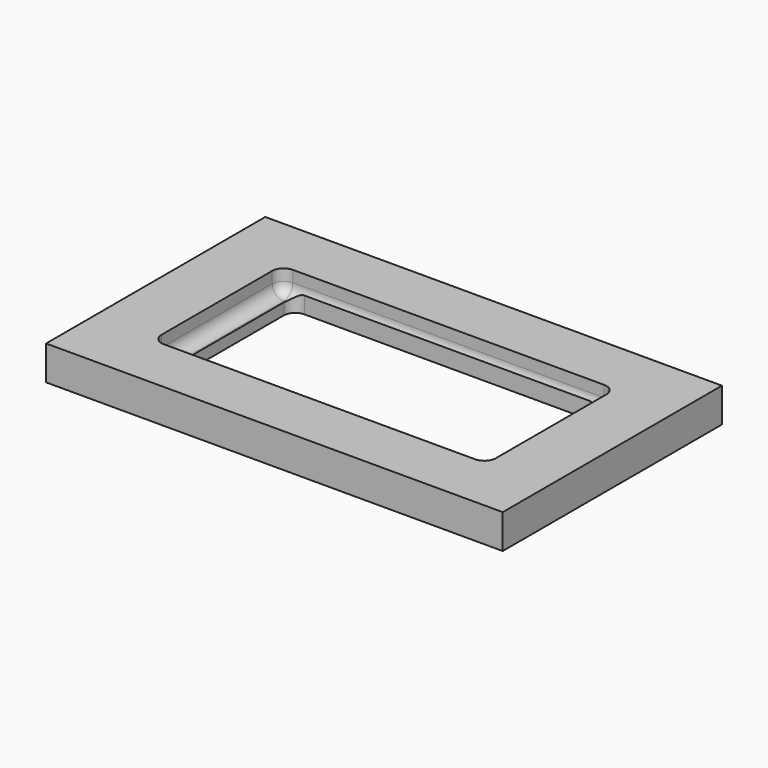
from build123d import *

# Parameters (mm, degrees)
F0_W      = 200
F0_H      = 120
F1_DEPTH  = 15
F2_W      = 146.4
F2_H      = 70.6
F3_DEPTH  = 10
F4_R      = 5
F5_R      = 5
F6_R      = 5
F7_R      = 5
F8_R      = 5
F9_W      = 135
F9_H      = 69
F10_DEPTH = 25
F11_R     = 5
F12_R     = 5
F13_R     = 5
F14_R     = 5


with BuildPart() as f1:
    # F0 (on Top) → F1 (new body)
    with BuildSketch(Plane.XY):
        Rectangle(F0_W, F0_H)
    extrude(amount=F1_DEPTH)

    # F2 (on face) → F3 (cut)
    with BuildSketch(Plane.XY.offset(15)):
        Rectangle(F2_W, F2_H)
    extrude(amount=-F3_DEPTH, mode=Mode.SUBTRACT)

    # F4
    f4_edges = [f1.edges().sort_by_distance(p)[0] for p in [
        (-73.2, 35.3, 10),
    ]]
    fillet(f4_edges, radius=F4_R)

    # F5
    f5_edges = [f1.edges().sort_by_distance(p)[0] for p in [
        (-73.2, -35.3, 10),
    ]]
    fillet(f5_edges, radius=F5_R)

    # F6
    f6_edges = [f1.edges().sort_by_distance(p)[0] for p in [
        (73.2, -35.3, 10),
    ]]
    fillet(f6_edges, radius=F6_R)

    # F7
    f7_edges = [f1.edges().sort_by_distance(p)[0] for p in [
        (73.2, 35.3, 10),
    ]]
    fillet(f7_edges, radius=F7_R)

    # F8
    f8_edges = [f1.edges().sort_by_distance(p)[0] for p in [
        (73.2, 0, 5),
        (0, 35.3, 5),
        (0, -35.3, 5),
        (-73.2, 0, 5),
    ]]
    fillet(f8_edges, radius=F8_R)

    # F9 (on face) → F10 (cut)
    with BuildSketch(Plane(origin=(0, 0, 0), x_dir=(1, 0, 0), z_dir=(0, 0, -1))):
        Rectangle(F9_W, F9_H)
    extrude(amount=-F10_DEPTH, mode=Mode.SUBTRACT)

    # F11
    f11_edges = [f1.edges().sort_by_distance(p)[0] for p in [
        (67.5, -34.5, 3.643534),
    ]]
    fillet(f11_edges, radius=F11_R)

    # F12
    f12_edges = [f1.edges().sort_by_distance(p)[0] for p in [
        (67.5, 34.5, 3.643534),
    ]]
    fillet(f12_edges, radius=F12_R)

    # F13
    f13_edges = [f1.edges().sort_by_distance(p)[0] for p in [
        (-67.5, 34.5, 3.643534),
    ]]
    fillet(f13_edges, radius=F13_R)

    # F14
    f14_edges = [f1.edges().sort_by_distance(p)[0] for p in [
        (-67.5, -34.5, 3.643534),
    ]]
    fillet(f14_edges, radius=F14_R)


solid = f1.part
